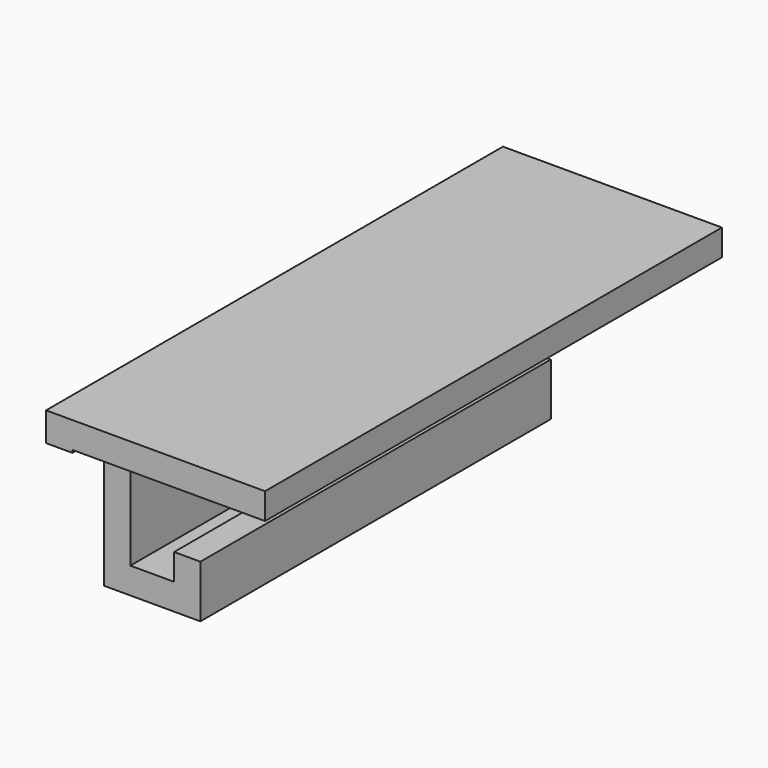
from build123d import *

# Parameters (mm, degrees)
F1_DEPTH = 65.2
F3_DEPTH = 25


with BuildPart() as f1:
    # F0 (on Front) → F1 (new body)
    with BuildSketch(Plane.XZ):
        Polygon((-27.608158, 12), (-27.608158, 15), (-62.608158, 15), (-62.608158, -6), (-51.608158, -6), (-51.608158, 0), (-54.608158, 0), (-54.608158, -3), (-59.608158, -3), (-59.608158, 12), align=None)
    extrude(amount=F1_DEPTH)

    # F2 (on face) → F3 (intersect)
    with BuildSketch(Plane(origin=(-62.608158, 0, 0), x_dir=(0, -1, 0), z_dir=(-1, 0, 0))):
        Polygon((0, 15), (0, 11.699338), (6.923881, 11.699338), (6.923881, -6), (32.6, -6), (56.923881, -6), (56.923881, 11.699338), (65.2, 11.699338), (65.2, 15), align=None)
    extrude(amount=-F3_DEPTH, mode=Mode.INTERSECT)


solid = f1.part
